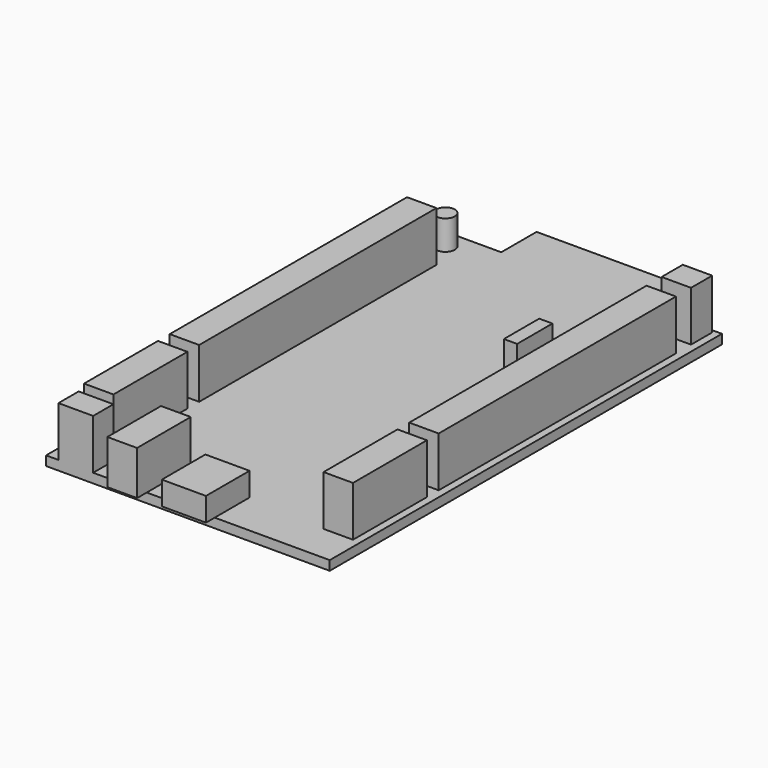
from build123d import *

# Parameters (mm, degrees)
F0_W     = 26.8
F0_H     = 7.5
F1_DEPTH = 1.6
F2_W     = 5
F2_H     = 50.4
F2_H_2   = 4.5
F2_W_2   = 5.9
F2_H_3   = 4.3
F2_W_3   = 2.25
F2_H_4   = 7.5
F2_H_5   = 15.7
F3_DEPTH = 8.5
F4_W     = 7.5
F4_H     = 9.25
F5_DEPTH = 4
F6_W     = 5.05
F6_H     = 11.4
F7_DEPTH = 7.5
F8_R     = 1.6
F9_DEPTH = 5


with BuildPart() as f1:
    # F0 (on Top) → F1 (new body)
    with BuildSketch(Plane.XY):
        Polygon((0, 83.3), (0, 0), (48.2, 0), (48.2, 83.3), (37.5, 83.3), (10.7, 83.3), align=None)
        with Locations((24.1, 87.05)):
            Rectangle(F0_W, F0_H)
    extrude(amount=F1_DEPTH)

    # F2 (on face) → F3 (join)
    with BuildSketch(Plane.XY.offset(1.6)):
        with Locations((3.75, 49.9)):
            Rectangle(F2_W, F2_H)
        with Locations((44.45, 80.55)):
            Rectangle(F2_W, F2_H_2)
        with Locations((44.45, 49.9)):
            Rectangle(F2_W, F2_H)
        with Locations((5.05, 2.15)):
            Rectangle(F2_W_2, F2_H_3)
        with Locations((37.875, 55.05)):
            Rectangle(F2_W_3, F2_H_4)
        with Locations((3.75, 14.35)):
            Rectangle(F2_W, F2_H_5)
        with Locations((44.45, 14.35)):
            Rectangle(F2_W, F2_H_5)
    extrude(amount=F3_DEPTH)

    # F4 (on face) → F5 (join)
    with BuildSketch(Plane.XY.offset(1.6)):
        with Locations((24.9, 2.775)):
            Rectangle(F4_W, F4_H)
    extrude(amount=F5_DEPTH)

    # F6 (on face) → F7 (join)
    with BuildSketch(Plane.XY.offset(1.6)):
        with Locations((14.575, 3.65)):
            Rectangle(F6_W, F6_H)
    extrude(amount=F7_DEPTH)

    # F8 (on face) → F9 (join)
    with BuildSketch(Plane.XY.offset(1.6)):
        with Locations((3.85, 80)):
            Circle(F8_R)
    extrude(amount=F9_DEPTH)


solid = f1.part
